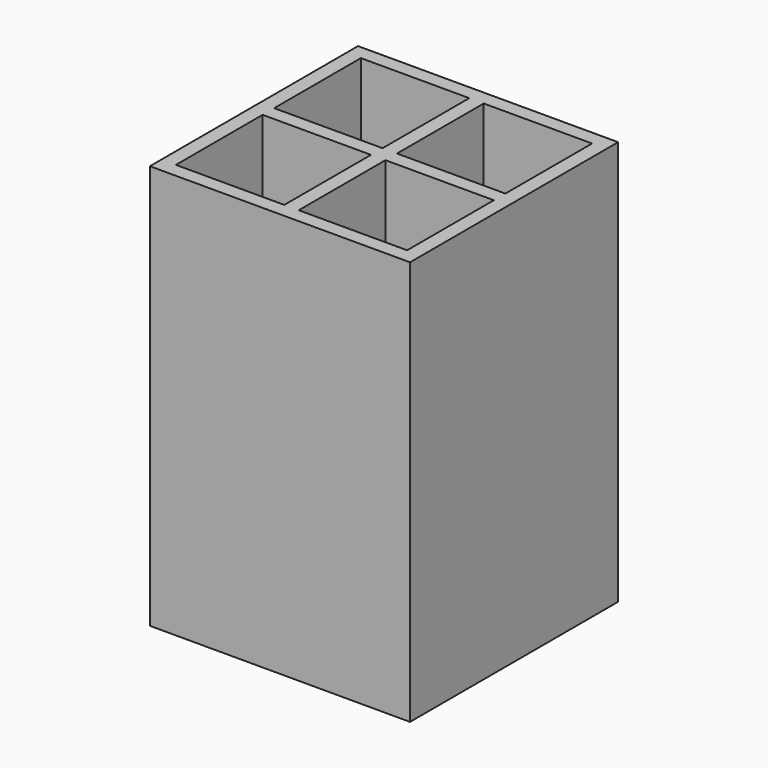
from build123d import *

# Parameters (mm, degrees)
F0_W     = 57.15
F0_H     = 88.9
F1_DEPTH = 57.15
F2_W     = 23.8125
F2_H     = 23.8125
F3_DEPTH = 85.852


with BuildPart() as f1:
    # F0 (on Front) → F1 (new body)
    with BuildSketch(Plane.XZ):
        Rectangle(F0_W, F0_H)
    extrude(amount=F1_DEPTH)

    # F2 (on face) → F3 (cut)
    with BuildSketch(Plane.XY.offset(44.45)):
        with Locations((-13.49375, -15.08125)):
            Rectangle(F2_W, F2_H)
        with Locations((13.49375, -15.08125)):
            Rectangle(F2_W, F2_H)
        with Locations((13.49375, -42.06875)):
            Rectangle(F2_W, F2_H)
        with Locations((-13.49375, -42.06875)):
            Rectangle(F2_W, F2_H)
    extrude(amount=-F3_DEPTH, mode=Mode.SUBTRACT)


solid = f1.part
